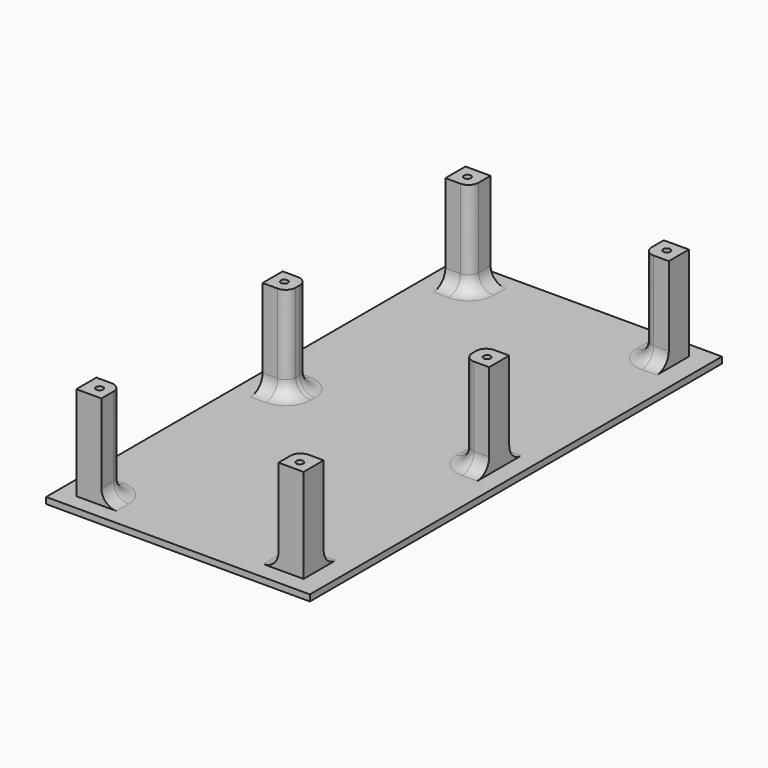
from build123d import *

# Parameters (mm, degrees)
F0_W     = 133.35
F0_H     = 260.35
F1_DEPTH = 3.175
F2_W     = 12.7
F2_H     = 12.7
F3_DEPTH = 50.8
F4_R     = 1.778
F5_DEPTH = 101.6
F6_R     = 5.08
F7_R     = 7.62


with BuildPart() as f1:
    # F0 (on Top) → F1 (new body)
    with BuildSketch(Plane.XY):
        with Locations((5.6592430919, 17.5170571296)):
            Rectangle(F0_W, F0_H)
    extrude(amount=F1_DEPTH)

    # F2 (on Top) → F3 (join)
    with BuildSketch(Plane.XY):
        with Locations((-44.7109719574, 133.5352105856)):
            Rectangle(F2_W, F2_H)
        with Locations((55.8016305625, 133.2016480923)):
            Rectangle(F2_W, F2_H)
        with Locations((55.8016305625, -97.5674582481)):
            Rectangle(F2_W, F2_H)
        with Locations((-45.7438980997, -98.3642829418)):
            Rectangle(F2_W, F2_H)
        with Locations((57.053201443, 18.1187247694)):
            Rectangle(F2_W, F2_H)
        with Locations((-45.0445456266, 18.4522984385)):
            Rectangle(F2_W, F2_H)
    extrude(amount=F3_DEPTH)

    # F4 (on Top) → F5 (cut)
    with BuildSketch(Plane.XY):
        with Locations((-44.9716448784, 133.486032486)):
            Circle(F4_R)
        with Locations((55.8261945844, 133.486032486)):
            Circle(F4_R)
        with Locations((-45.3700572252, 18.3454081416)):
            Circle(F4_R)
        with Locations((57.4198365211, 17.9469976574)):
            Circle(F4_R)
        with Locations((-45.3700572252, -98.3888506889)):
            Circle(F4_R)
        with Locations((55.8261945844, -98.3888506889)):
            Circle(F4_R)
    extrude(amount=F5_DEPTH, mode=Mode.SUBTRACT)

    # F6
    f6_edges = [f1.edges().sort_by_distance(p)[0] for p in [
        (-38.360972, 127.185211, 26.9875),
        (-38.694546, 24.802298, 26.9875),
        (-38.694546, 12.102298, 26.9875),
        (-39.393898, -92.014283, 26.9875),
        (49.451631, 126.851648, 26.9875),
        (50.703201, 24.468725, 26.9875),
        (49.451631, -91.217458, 26.9875),
        (50.703201, 11.768725, 26.9875),
    ]]
    fillet(f6_edges, radius=F6_R)

    # F7
    f7_edges = [f1.edges().sort_by_distance(p)[0] for p in [
        (-47.250972, 127.185211, 3.175),
        (50.939528, 128.339546, 3.175),
        (-40.182443, 13.590196, 3.175),
        (52.191099, 13.256622, 3.175),
        (-39.393898, -100.904283, 3.175),
        (49.451631, -100.107458, 3.175),
    ]]
    fillet(f7_edges, radius=F7_R)


solid = f1.part
